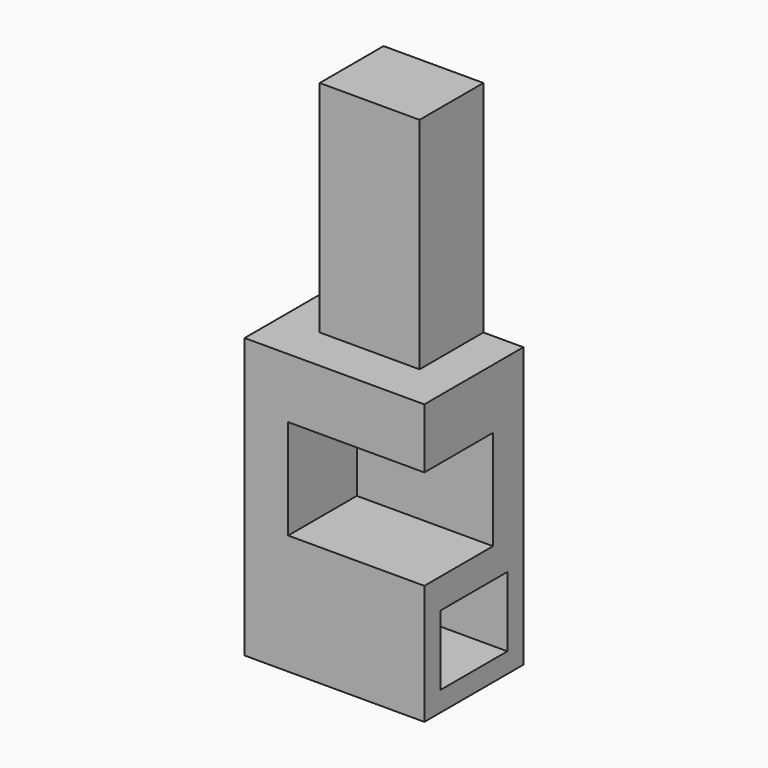
from build123d import *

# Parameters (mm, degrees)
F0_W     = 900
F0_H     = 620
F1_DEPTH = 1400
F2_W     = 682
F2_H     = 500
F3_DEPTH = 430
F4_W     = 500
F4_H     = 400
F5_DEPTH = 1100
F6_W     = 420
F6_H     = 350
F7_DEPTH = 350


with BuildPart() as f1:
    # F0 (on Top) → F1 (new body)
    with BuildSketch(Plane.XY):
        with Locations((2.302444, -81.240896)):
            Rectangle(F0_W, F0_H)
    extrude(amount=F1_DEPTH)

    # F2 (on face) → F3 (cut)
    with BuildSketch(Plane.XZ.offset(391.240896)):
        with Locations((111.302444, 850)):
            Rectangle(F2_W, F2_H)
    extrude(amount=-F3_DEPTH, mode=Mode.SUBTRACT)

    # F4 (on face) → F5 (join)
    with BuildSketch(Plane.XY.offset(1400)):
        with Locations((2.302444, 28.759104)):
            Rectangle(F4_W, F4_H)
    extrude(amount=F5_DEPTH)

    # F6 (on face) → F7 (cut)
    with BuildSketch(Plane.YZ.offset(452.302444)):
        with Locations((-81.240896, 275)):
            Rectangle(F6_W, F6_H)
    extrude(amount=-F7_DEPTH, mode=Mode.SUBTRACT)


solid = f1.part
